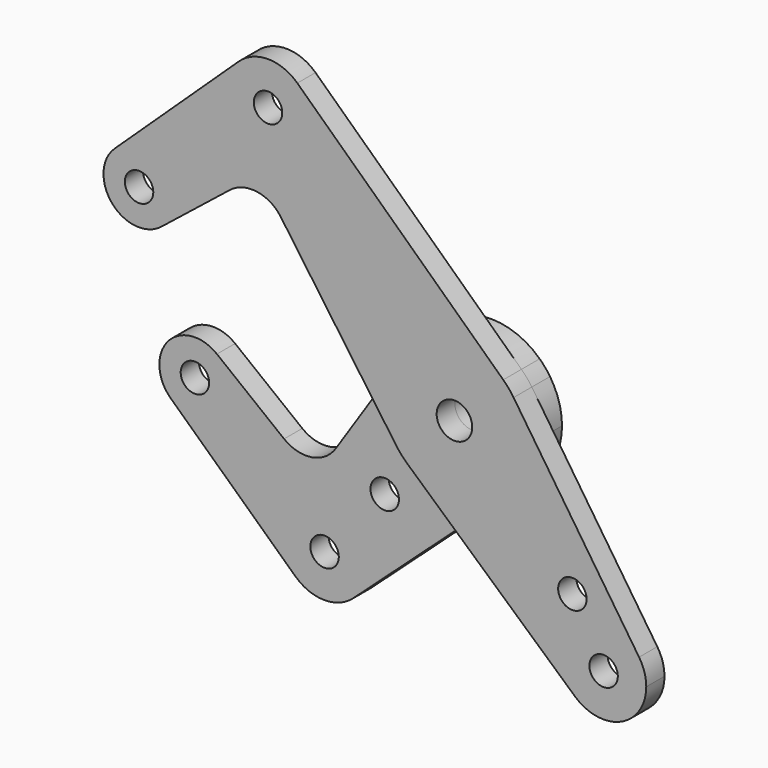
from build123d import *

# Parameters (mm, degrees)
F0_R     = 3.175
F0_R_2   = 3.96875
F1_DEPTH = 5.08
F2_DEPTH = 5.08


with BuildPart() as f1:
    # F0 (on Front) → F1 (new body)
    with BuildSketch(Plane.XZ):
        with BuildLine():
            ThreePointArc((-13.2524193062, 8.7400805221), (-1.834314477, 15.7686687897), (10.8922900307, 11.5487507067))
            Line((10.8922900307, 11.5487507067), (-35.0711574392, 54.8995176744))
            ThreePointArc((-35.0711574392, 54.8995176744), (-32.8608164346, 51.7436071154), (-32.0815314576, 47.9702672503))
            ThreePointArc((-32.0815314576, 47.9702672503), (-45.3798713227, 39.2245522274), (-48.1419054761, 54.8995176744))
            Line((-48.1419054761, 54.8995176744), (-75.8348368232, 28.7807237291))
            ThreePointArc((-75.8348368232, 28.7807237291), (-67.2442419203, 30.2944442282), (-62.4511918078, 23.0063483758))
            ThreePointArc((-62.4511918078, 23.0063483758), (-63.237943921, 19.5609585706), (-65.4422370763, 16.798571653))
            Line((-65.4422370763, 16.798571653), (-50.1509863937, 28.9828821829))
            ThreePointArc((-50.1509863937, 28.9828821829), (-44.0823996147, 30.6328866939), (-38.7182233604, 27.3502241323))
            Line((-38.7182233604, 27.3502241323), (-19.2147683858, -0.3005169703))
            Line((-19.2147683858, -0.3005169703), (-13.2524193062, 8.7400805221))
        make_face()
        with BuildLine():
            ThreePointArc((-62.4511918078, 23.0063483758), (-67.2442419203, 30.2944442282), (-75.8348368232, 28.7807237291))
            ThreePointArc((-75.8348368232, 28.7807237291), (-76.3849752141, 17.8055319436), (-65.4422370763, 16.798571653))
            ThreePointArc((-65.4422370763, 16.798571653), (-63.237943921, 19.5609585706), (-62.4511918078, 23.0063483758))
        make_face()
        with Locations((-70.3886918078, 23.0063483758)):
            Circle(F0_R, mode=Mode.SUBTRACT)
        with BuildLine():
            ThreePointArc((-32.0815314576, 47.9702672503), (-32.8608164346, 51.7436071154), (-35.0711574392, 54.8995176744))
            ThreePointArc((-35.0711574392, 54.8995176744), (-41.6065314576, 57.4952672503), (-48.1419054761, 54.8995176744))
            ThreePointArc((-48.1419054761, 54.8995176744), (-45.3798713227, 39.2245522274), (-32.0815314576, 47.9702672503))
        make_face()
        with Locations((-41.6065314576, 47.9702672503)):
            Circle(F0_R, mode=Mode.SUBTRACT)
        with BuildLine():
            ThreePointArc((15.875, 0), (15.1912005478, 4.609018433), (13.1987101208, 8.820979319))
            ThreePointArc((13.1987101208, 8.820979319), (12.1224690662, 10.2499448164), (10.8922900307, 11.5487507067))
            ThreePointArc((10.8922900307, 11.5487507067), (-1.834314477, 15.7686687897), (-13.2524193062, 8.7400805221))
            ThreePointArc((-13.2524193062, 8.7400805221), (-15.8730587934, -0.2482529814), (-12.9726166036, -9.1502373442))
            ThreePointArc((-12.9726166036, -9.1502373442), (-11.8607666217, -10.5516747555), (-10.5983019047, -11.8191210221))
            ThreePointArc((-10.5983019047, -11.8191210221), (0.0485522706, -15.8749257534), (10.6703987497, -11.7540722953))
            ThreePointArc((10.6703987497, -11.7540722953), (14.5156502636, -6.4274040191), (15.875, 0))
        make_face()
        Circle(F0_R_2, mode=Mode.SUBTRACT)
        with BuildLine():
            ThreePointArc((26.9262440233, -45.4676864135), (27.0442454474, -31.1806737127), (41.2044512386, -33.0836262089))
            Line((41.2044512386, -33.0836262089), (13.1987101208, 8.820979319))
            ThreePointArc((13.1987101208, 8.820979319), (15.1912005478, 4.609018433), (15.875, 0))
            ThreePointArc((15.875, 0), (14.5156502636, -6.4274040191), (10.6703987497, -11.7540722953))
            Line((10.6703987497, -11.7540722953), (0.0653932355, -21.3813431455))
            Line((0.0653932355, -21.3813431455), (26.9262440233, -45.4676864135))
        make_face()
        with Locations((26.3222689506, -25.5025770961)):
            Circle(F0_R, mode=Mode.SUBTRACT)
        with BuildLine():
            ThreePointArc((26.9262440233, -45.4676864135), (37.1682864336, -47.0737686401), (42.8102251661, -38.3762138003))
            ThreePointArc((42.8102251661, -38.3762138003), (42.3999454948, -35.6108027404), (41.2044512386, -33.0836262089))
            ThreePointArc((41.2044512386, -33.0836262089), (27.0442454474, -31.1806737127), (26.9262440233, -45.4676864135))
        make_face()
        with Locations((33.2852251661, -38.3762138003)):
            Circle(F0_R, mode=Mode.SUBTRACT)
        with BuildLine():
            Line((-10.5983019047, -11.8191210221), (0.0653932355, -21.3813431455))
            Line((0.0653932355, -21.3813431455), (10.6703987497, -11.7540722953))
            ThreePointArc((10.6703987497, -11.7540722953), (0.0485522706, -15.8749257534), (-10.5983019047, -11.8191210221))
        make_face()
        with BuildLine():
            ThreePointArc((-12.9726166036, -9.1502373442), (-15.8730587934, -0.2482529814), (-13.2524193062, 8.7400805221))
            Line((-13.2524193062, 8.7400805221), (-19.2147683858, -0.3005169703))
            Line((-19.2147683858, -0.3005169703), (-12.9726166036, -9.1502373442))
        make_face()
    extrude(amount=F1_DEPTH)


with BuildPart() as f2:
    # F0 (on Front) → F2 (new body)
    with BuildSketch(Plane.XZ):
        with BuildLine():
            ThreePointArc((15.875, 0), (15.1912005478, 4.609018433), (13.1987101208, 8.820979319))
            ThreePointArc((13.1987101208, 8.820979319), (12.1224690662, 10.2499448164), (10.8922900307, 11.5487507067))
            ThreePointArc((10.8922900307, 11.5487507067), (-1.834314477, 15.7686687897), (-13.2524193062, 8.7400805221))
            ThreePointArc((-13.2524193062, 8.7400805221), (-15.8730587934, -0.2482529814), (-12.9726166036, -9.1502373442))
            ThreePointArc((-12.9726166036, -9.1502373442), (-11.8607666217, -10.5516747555), (-10.5983019047, -11.8191210221))
            ThreePointArc((-10.5983019047, -11.8191210221), (0.0485522706, -15.8749257534), (10.6703987497, -11.7540722953))
            ThreePointArc((10.6703987497, -11.7540722953), (14.5156502636, -6.4274040191), (15.875, 0))
        make_face()
        Circle(F0_R_2, mode=Mode.SUBTRACT)
        with BuildLine():
            Line((-10.5983019047, -11.8191210221), (0.0653932355, -21.3813431455))
            Line((0.0653932355, -21.3813431455), (10.6703987497, -11.7540722953))
            ThreePointArc((10.6703987497, -11.7540722953), (0.0485522706, -15.8749257534), (-10.5983019047, -11.8191210221))
        make_face()
        with BuildLine():
            ThreePointArc((-12.9726166036, -9.1502373442), (-15.8730587934, -0.2482529814), (-13.2524193062, 8.7400805221))
            Line((-13.2524193062, 8.7400805221), (-19.2147683858, -0.3005169703))
            Line((-19.2147683858, -0.3005169703), (-12.9726166036, -9.1502373442))
        make_face()
        with BuildLine():
            Line((-26.647623873, -45.6315380732), (0.0653932355, -21.3813431455))
            Line((0.0653932355, -21.3813431455), (-10.5983019047, -11.8191210221))
            ThreePointArc((-10.5983019047, -11.8191210221), (-11.8607666217, -10.5516747555), (-12.9726166036, -9.1502373442))
            Line((-12.9726166036, -9.1502373442), (-19.2147683858, -0.3005169703))
            Line((-19.2147683858, -0.3005169703), (-30.5474012326, -17.4839744853))
            ThreePointArc((-30.5474012326, -17.4839744853), (-35.9047663103, -20.9493627188), (-42.0820013957, -19.3518512525))
            Line((-42.0820013957, -19.3518512525), (-57.0757936348, -7.5537803256))
            ThreePointArc((-57.0757936348, -7.5537803256), (-54.8440071189, -10.3244537385), (-54.0466841448, -13.7916973539))
            ThreePointArc((-54.0466841448, -13.7916973539), (-58.817458973, -21.070142101), (-67.394906617, -19.5992776228))
            Line((-67.394906617, -19.5992776228), (-39.5427300894, -45.5481910186))
            ThreePointArc((-39.5427300894, -45.5481910186), (-36.849933329, -29.8449609995), (-23.5248631228, -38.579094696))
            ThreePointArc((-23.5248631228, -38.579094696), (-24.3404729646, -42.4355371074), (-26.647623873, -45.6315380732))
        make_face()
        with Locations((-19.6233562292, -22.9063374758)):
            Circle(F0_R, mode=Mode.SUBTRACT)
        with BuildLine():
            ThreePointArc((-39.5427300894, -45.5481910186), (-33.1114263313, -48.1038957423), (-26.647623873, -45.6315380732))
            ThreePointArc((-26.647623873, -45.6315380732), (-24.3404729646, -42.4355371074), (-23.5248631228, -38.579094696))
            ThreePointArc((-23.5248631228, -38.579094696), (-36.849933329, -29.8449609995), (-39.5427300894, -45.5481910186))
        make_face()
        with Locations((-33.0498631228, -38.579094696)):
            Circle(F0_R, mode=Mode.SUBTRACT)
        with BuildLine():
            ThreePointArc((-57.0757936348, -7.5537803256), (-68.0121676911, -8.627656241), (-67.394906617, -19.5992776228))
            ThreePointArc((-67.394906617, -19.5992776228), (-58.817458973, -21.070142101), (-54.0466841448, -13.7916973539))
            ThreePointArc((-54.0466841448, -13.7916973539), (-54.8440071189, -10.3244537385), (-57.0757936348, -7.5537803256))
        make_face()
        with Locations((-61.9841841448, -13.7916973539)):
            Circle(F0_R, mode=Mode.SUBTRACT)
    extrude(amount=-F2_DEPTH)


solid = Compound([f1.part, f2.part])
